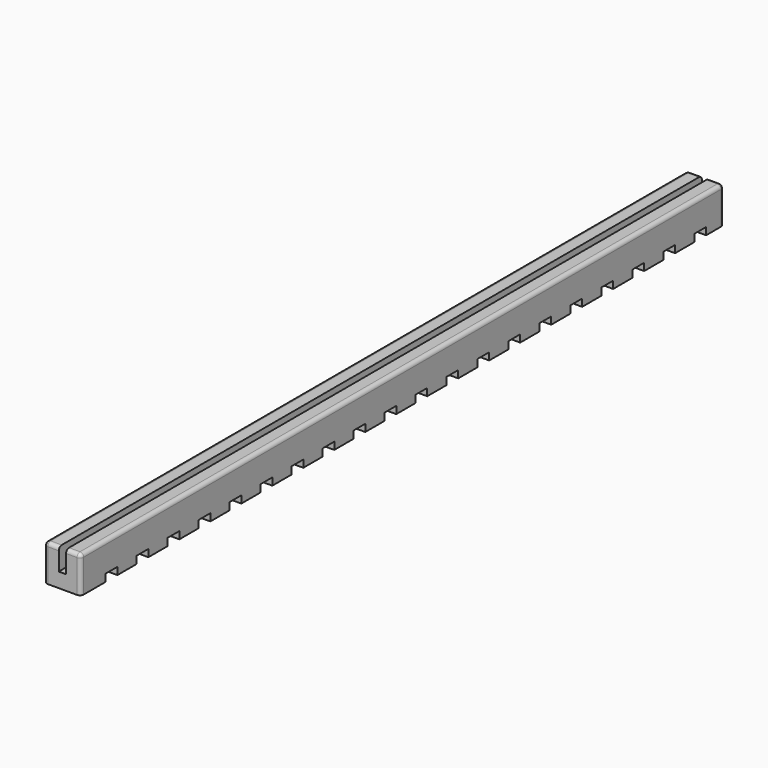
from build123d import *

# Parameters (mm, degrees)
F0_W     = 0.5
F0_H     = 110
F1_DEPTH = 2
F0_W_2   = 2
F2_DEPTH = 5
F3_R     = 0.5
F4_W     = 2
F4_H     = 1
F5_DEPTH = 28.67605


with BuildPart() as f1:
    # F0 (on Top) → F1 (new body)
    with BuildSketch(Plane.XY):
        with Locations((-0.25, -0.5195)):
            Rectangle(F0_W, F0_H)
        with Locations((0.25, -0.5195)):
            Rectangle(F0_W, F0_H)
    extrude(amount=F1_DEPTH)

    # F0 (on Top) → F2 (join)
    with BuildSketch(Plane.XY):
        with Locations((-1.5, -0.5195)):
            Rectangle(F0_W_2, F0_H)
        with Locations((1.5, -0.5195)):
            Rectangle(F0_W_2, F0_H)
    extrude(amount=F2_DEPTH)

    # F3
    f3_edges = [f1.edges().sort_by_distance(p)[0] for p in [
        (-2.5, -55.5195, 2.5),
        (-1.5, -55.5195, 5),
        (1.5, -55.5195, 5),
        (2.5, -55.5195, 2.5),
        (2.5, -0.5195, 5),
        (-2.5, -0.5195, 5),
        (-1.5, 54.4805, 5),
        (1.5, 54.4805, 5),
        (2.5, 54.4805, 2.5),
        (-2.5, 54.4805, 2.5),
    ]]
    fillet(f3_edges, radius=F3_R)

    # F4 (on face) → F5 (cut)
    with BuildSketch(Plane(origin=(-2.5, 0, 0), x_dir=(0, -1, 0), z_dir=(-1, 0, 0))):
        with Locations((-50.451858, 0.5)):
            Rectangle(F4_W, F4_H)
        with Locations((-45.151858, 0.5)):
            Rectangle(F4_W, F4_H)
        with Locations((-39.851858, 0.5)):
            Rectangle(F4_W, F4_H)
        with Locations((-34.551858, 0.5)):
            Rectangle(F4_W, F4_H)
        with Locations((-29.251858, 0.5)):
            Rectangle(F4_W, F4_H)
        with Locations((-23.951858, 0.5)):
            Rectangle(F4_W, F4_H)
        with Locations((-18.651858, 0.5)):
            Rectangle(F4_W, F4_H)
        with Locations((-13.351858, 0.5)):
            Rectangle(F4_W, F4_H)
        with Locations((-8.051858, 0.5)):
            Rectangle(F4_W, F4_H)
        with Locations((-2.751858, 0.5)):
            Rectangle(F4_W, F4_H)
        with Locations((2.548142, 0.5)):
            Rectangle(F4_W, F4_H)
        with Locations((7.848142, 0.5)):
            Rectangle(F4_W, F4_H)
        with Locations((13.148142, 0.5)):
            Rectangle(F4_W, F4_H)
        with Locations((18.448142, 0.5)):
            Rectangle(F4_W, F4_H)
        with Locations((23.748142, 0.5)):
            Rectangle(F4_W, F4_H)
        with Locations((29.048142, 0.5)):
            Rectangle(F4_W, F4_H)
        with Locations((34.348142, 0.5)):
            Rectangle(F4_W, F4_H)
        with Locations((39.648142, 0.5)):
            Rectangle(F4_W, F4_H)
        with Locations((44.948142, 0.5)):
            Rectangle(F4_W, F4_H)
        with Locations((50.248142, 0.5)):
            Rectangle(F4_W, F4_H)
    extrude(amount=-F5_DEPTH, mode=Mode.SUBTRACT)


solid = f1.part
